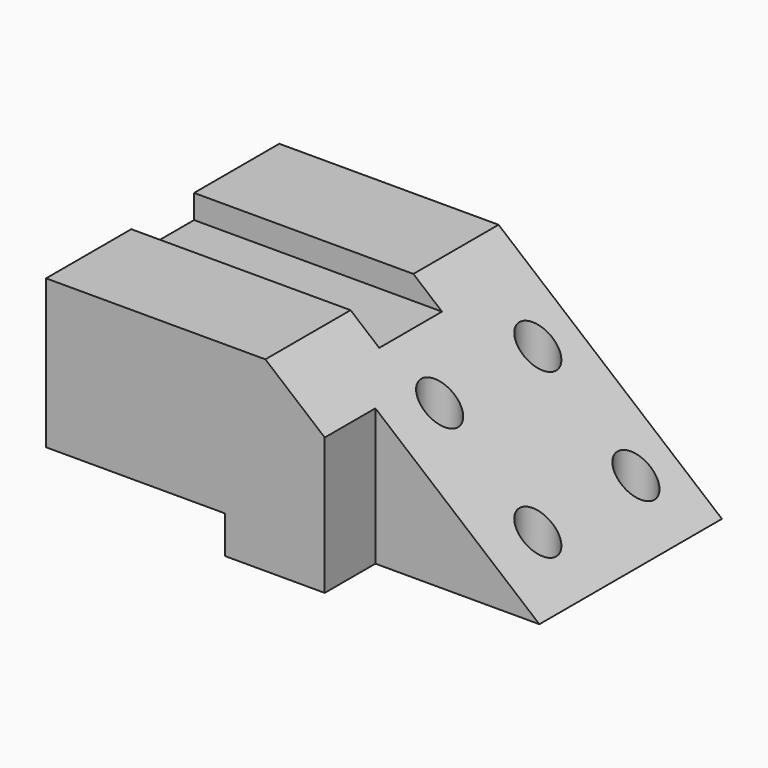
from build123d import *

# Parameters (mm, degrees)
F1_DEPTH      = 37.718965
F2_W          = 42.4428796396
F2_H          = 16.3872130215
F3_DEPTH      = 48.2236520451
F4_W          = 20.3172173351
F4_H          = 6.184624848
F5_DEPTH      = 56.7568631301
F5_DEPTH_BACK = 57.8078979084
F6_R          = 4.7625
F7_DEPTH      = 48.2236520451


with BuildPart() as f1:
    # F0 (on Front) → F1 (new body, symmetric)
    with BuildSketch(Plane.XZ):
        Polygon((-10.5103449896, 0), (57.8068979084, 0), (0, 48.2226520451), (-56.7558631301, 48.2226520451), (-56.7558631301, 9.7220684111), (-10.5103449896, 9.7220684111), align=None)
    extrude(amount=F1_DEPTH, both=True)

    # F2 (on face) → F3 (cut, through all)
    with BuildSketch(Plane.XY.offset(48.2226520451)):
        with Locations((36.5854580887, -29.5253584892)):
            Rectangle(F2_W, F2_H)
    extrude(amount=-F3_DEPTH, mode=Mode.SUBTRACT)

    # F4 (on Right) → F5 (cut, two sides)
    with BuildSketch(Plane.YZ) as f5_sk:
        with Locations((0, 45.1303396211)):
            Rectangle(F4_W, F4_H)
    extrude(amount=-F5_DEPTH, mode=Mode.SUBTRACT)
    extrude(f5_sk.sketch, amount=F5_DEPTH_BACK, mode=Mode.SUBTRACT)

    # F6 (on face) → F7 (cut, through all)
    with BuildSketch(Plane.XY.offset(48.2226520451)):
        with Locations((45.1068979084, 25.781035)):
            Circle(F6_R)
        with Locations((19.7068979084, 25.781035)):
            Circle(F6_R)
        with Locations((19.7068979084, -5.968965)):
            Circle(F6_R)
        with Locations((45.1068979084, -5.968965)):
            Circle(F6_R)
    extrude(amount=-F7_DEPTH, mode=Mode.SUBTRACT)


solid = f1.part
